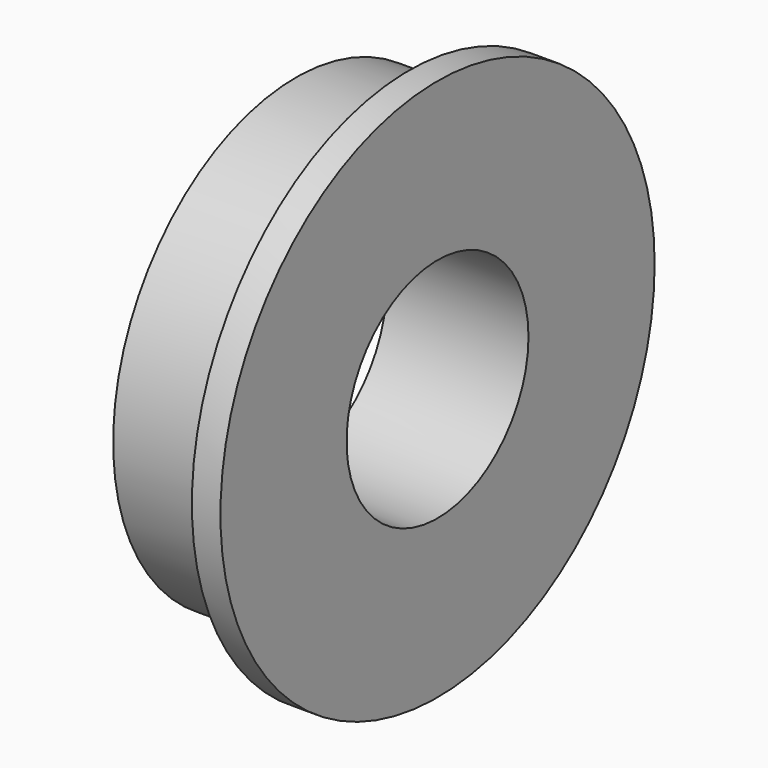
from build123d import *

# Parameters (mm, degrees)
F0_R     = 7.995
F0_R_2   = 3.98
F1_DEPTH = 4.96
F2_R     = 9.5
F2_R_2   = 7.995
F3_DEPTH = 1


with BuildPart() as f1:
    # F0 (on Right) → F1 (new body)
    with BuildSketch(Plane.YZ):
        Circle(F0_R)
        Circle(F0_R_2, mode=Mode.SUBTRACT)
    extrude(amount=F1_DEPTH)

    # F2 (on face) → F3 (join)
    with BuildSketch(Plane.YZ.offset(4.96)):
        Circle(F2_R)
        Circle(F2_R_2, mode=Mode.SUBTRACT)
    extrude(amount=-F3_DEPTH)


solid = f1.part
